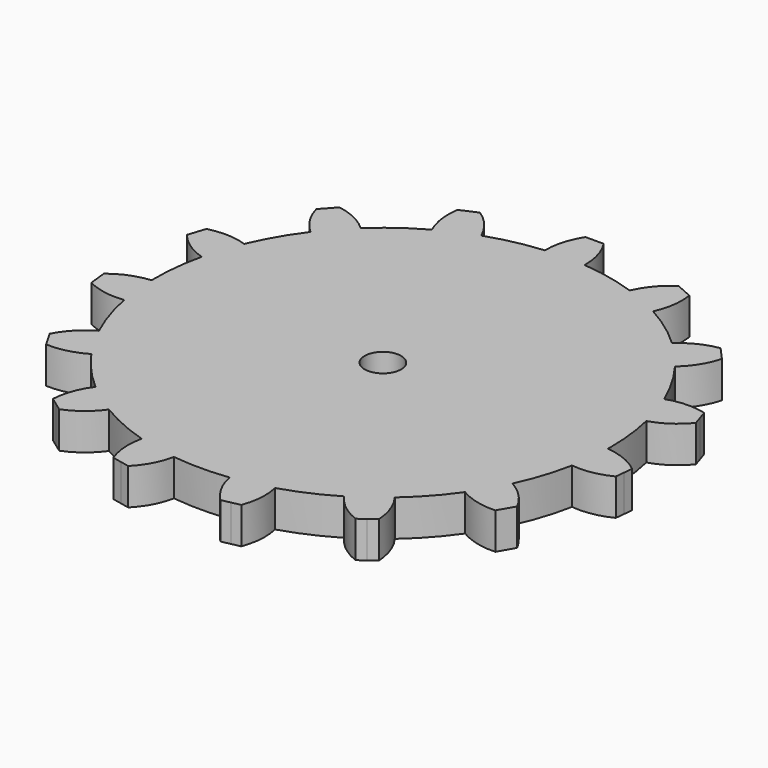
from build123d import *

# Parameters (mm, degrees)
F1_DEPTH = 2
F2_R     = 1
F3_DEPTH = 2.001


with BuildPart() as f1:
    # F0 (on Top) → F1 (new body)
    with BuildSketch(Plane.XY):
        with BuildLine():
            ThreePointArc((12.498086, -0.218737), (12.499521, -0.109373), (12.5, 0))
            ThreePointArc((12.5, 0), (12.419615, 1.415329), (12.179495, 2.812455))
            ThreePointArc((12.179495, 2.812455), (11.888206, 3.862712), (11.506538, 4.883604))
            ThreePointArc((11.506538, 4.883604), (10.825318, 6.25), (9.982594, 7.523152))
            ThreePointArc((9.982594, 7.523152), (9.28931, 8.364133), (8.525405, 9.141525))
            ThreePointArc((8.525405, 9.141525), (7.347316, 10.112712), (6.059612, 10.933028))
            ThreePointArc((6.059612, 10.933028), (5.084208, 11.419318), (4.070152, 11.818793))
            ThreePointArc((4.070152, 11.818793), (2.598896, 12.226845), (1.088867, 12.452484))
            ThreePointArc((1.088867, 12.452484), (0, 12.5), (-1.088867, 12.452484))
            ThreePointArc((-1.088867, 12.452484), (-2.598896, 12.226845), (-4.070152, 11.818793))
            ThreePointArc((-4.070152, 11.818793), (-5.084208, 11.419318), (-6.059612, 10.933028))
            ThreePointArc((-6.059612, 10.933028), (-7.347316, 10.112712), (-8.525405, 9.141525))
            ThreePointArc((-8.525405, 9.141525), (-9.28931, 8.364133), (-9.982594, 7.523152))
            ThreePointArc((-9.982594, 7.523152), (-10.825318, 6.25), (-11.506538, 4.883604))
            ThreePointArc((-11.506538, 4.883604), (-11.888206, 3.862712), (-12.179495, 2.812455))
            ThreePointArc((-12.179495, 2.812455), (-12.431524, 1.306606), (-12.498086, -0.218737))
            ThreePointArc((-12.498086, -0.218737), (-12.431524, -1.306606), (-12.270451, -2.384541))
            ThreePointArc((-12.270451, -2.384541), (-11.888206, -3.862712), (-11.328602, -5.283255))
            ThreePointArc((-11.328602, -5.283255), (-10.825318, -6.25), (-10.239734, -7.169229))
            ThreePointArc((-10.239734, -7.169229), (-9.28931, -8.364133), (-8.200299, -9.434251))
            ThreePointArc((-8.200299, -9.434251), (-7.347316, -10.112712), (-6.438475, -10.714292))
            ThreePointArc((-6.438475, -10.714292), (-5.084208, -11.419318), (-3.65409, -11.953979))
            ThreePointArc((-3.65409, -11.953979), (-2.598896, -12.226845), (-1.523944, -12.406756))
            ThreePointArc((-1.523944, -12.406756), (0, -12.5), (1.523944, -12.406756))
            ThreePointArc((1.523944, -12.406756), (2.598896, -12.226845), (3.65409, -11.953979))
            ThreePointArc((3.65409, -11.953979), (5.084208, -11.419318), (6.438475, -10.714292))
            ThreePointArc((6.438475, -10.714292), (7.347316, -10.112712), (8.200299, -9.434251))
            ThreePointArc((8.200299, -9.434251), (9.28931, -8.364133), (10.239734, -7.169229))
            ThreePointArc((10.239734, -7.169229), (10.825318, -6.25), (11.328602, -5.283255))
            ThreePointArc((11.328602, -5.283255), (11.888206, -3.862712), (12.270451, -2.384541))
            ThreePointArc((12.270451, -2.384541), (12.431524, -1.306606), (12.498086, -0.218737))
        make_face()
        with BuildLine():
            ThreePointArc((11.506538, 4.883604), (11.888206, 3.862712), (12.179495, 2.812455))
            ThreePointArc((12.179495, 2.812455), (13.150138, 3.278627), (13.944828, 4.005218))
            Line((13.944828, 4.005218), (13.790319, 4.480746))
            Line((13.790319, 4.480746), (13.635811, 4.956275))
            ThreePointArc((13.635811, 4.956275), (12.565814, 5.076992), (11.506538, 4.883604))
        make_face()
        with BuildLine():
            ThreePointArc((14.472832, -1.018402), (13.544441, -0.472914), (12.498086, -0.218737))
            ThreePointArc((12.498086, -0.218737), (12.431524, -1.306606), (12.270451, -2.384541))
            ThreePointArc((12.270451, -2.384541), (13.346787, -2.353468), (14.368303, -2.012924))
            Line((14.368303, -2.012924), (14.420567, -1.515663))
            Line((14.420567, -1.515663), (14.472832, -1.018402))
        make_face()
        with BuildLine():
            ThreePointArc((8.525405, 9.141525), (9.28931, 8.364133), (9.982594, 7.523152))
            ThreePointArc((9.982594, 7.523152), (10.679711, 8.343818), (11.110165, 9.330821))
            Line((11.110165, 9.330821), (10.7756, 9.702394))
            Line((10.7756, 9.702394), (10.441035, 10.073966))
            ThreePointArc((10.441035, 10.073966), (9.414444, 9.74904), (8.525405, 9.141525))
        make_face()
        with BuildLine():
            ThreePointArc((12.807368, -6.816987), (12.181111, -5.941049), (11.328602, -5.283255))
            ThreePointArc((11.328602, -5.283255), (10.825318, -6.25), (10.239734, -7.169229))
            ThreePointArc((10.239734, -7.169229), (11.235655, -7.578627), (12.307368, -7.683013))
            Line((12.307368, -7.683013), (12.557368, -7.25))
            Line((12.557368, -7.25), (12.807368, -6.816987))
        make_face()
        with BuildLine():
            ThreePointArc((4.070152, 11.818793), (5.084208, 11.419318), (6.059612, 10.933028))
            ThreePointArc((6.059612, 10.933028), (6.362665, 11.966287), (6.354454, 13.043041))
            Line((6.354454, 13.043041), (5.897681, 13.246409))
            Line((5.897681, 13.246409), (5.440909, 13.449777))
            ThreePointArc((5.440909, 13.449777), (4.635231, 12.735391), (4.070152, 11.818793))
        make_face()
        with BuildLine():
            ThreePointArc((8.927395, -11.436854), (8.711557, -10.381923), (8.200299, -9.434251))
            ThreePointArc((8.200299, -9.434251), (7.347316, -10.112712), (6.438475, -10.714292))
            ThreePointArc((6.438475, -10.714292), (7.181776, -11.493373), (8.118378, -12.024639))
            Line((8.118378, -12.024639), (8.522886, -11.730746))
            Line((8.522886, -11.730746), (8.927395, -11.436854))
        make_face()
        with BuildLine():
            ThreePointArc((-1.088867, 12.452484), (0, 12.5), (1.088867, 12.452484))
            ThreePointArc((1.088867, 12.452484), (0.945456, 13.519676), (0.5, 14.5))
            Line((0.5, 14.5), (0, 14.5))
            Line((0, 14.5), (-0.5, 14.5))
            ThreePointArc((-0.5, 14.5), (-0.945456, 13.519676), (-1.088867, 12.452484))
        make_face()
        with BuildLine():
            ThreePointArc((3.503793, -14.079184), (3.735695, -13.027668), (3.65409, -11.953979))
            ThreePointArc((3.65409, -11.953979), (2.598896, -12.226845), (1.523944, -12.406756))
            ThreePointArc((1.523944, -12.406756), (1.886103, -13.42081), (2.525646, -14.287096))
            Line((2.525646, -14.287096), (3.01472, -14.18314))
            Line((3.01472, -14.18314), (3.503793, -14.079184))
        make_face()
        with BuildLine():
            ThreePointArc((-6.059612, 10.933028), (-5.084208, 11.419318), (-4.070152, 11.818793))
            ThreePointArc((-4.070152, 11.818793), (-4.635231, 12.735391), (-5.440909, 13.449777))
            Line((-5.440909, 13.449777), (-5.897681, 13.246409))
            Line((-5.897681, 13.246409), (-6.354454, 13.043041))
            ThreePointArc((-6.354454, 13.043041), (-6.362665, 11.966287), (-6.059612, 10.933028))
        make_face()
        with BuildLine():
            ThreePointArc((-2.525646, -14.287096), (-1.886103, -13.42081), (-1.523944, -12.406756))
            ThreePointArc((-1.523944, -12.406756), (-2.598896, -12.226845), (-3.65409, -11.953979))
            ThreePointArc((-3.65409, -11.953979), (-3.735695, -13.027668), (-3.503793, -14.079184))
            Line((-3.503793, -14.079184), (-3.01472, -14.18314))
            Line((-3.01472, -14.18314), (-2.525646, -14.287096))
        make_face()
        with BuildLine():
            ThreePointArc((-9.982594, 7.523152), (-9.28931, 8.364133), (-8.525405, 9.141525))
            ThreePointArc((-8.525405, 9.141525), (-9.414444, 9.74904), (-10.441035, 10.073966))
            Line((-10.441035, 10.073966), (-10.7756, 9.702394))
            Line((-10.7756, 9.702394), (-11.110165, 9.330821))
            ThreePointArc((-11.110165, 9.330821), (-10.679711, 8.343818), (-9.982594, 7.523152))
        make_face()
        with BuildLine():
            ThreePointArc((-8.118378, -12.024639), (-7.181776, -11.493373), (-6.438475, -10.714292))
            ThreePointArc((-6.438475, -10.714292), (-7.347316, -10.112712), (-8.200299, -9.434251))
            ThreePointArc((-8.200299, -9.434251), (-8.711557, -10.381923), (-8.927395, -11.436854))
            Line((-8.927395, -11.436854), (-8.522886, -11.730746))
            Line((-8.522886, -11.730746), (-8.118378, -12.024639))
        make_face()
        with BuildLine():
            ThreePointArc((-12.179495, 2.812455), (-11.888206, 3.862712), (-11.506538, 4.883604))
            ThreePointArc((-11.506538, 4.883604), (-12.565814, 5.076992), (-13.635811, 4.956275))
            Line((-13.635811, 4.956275), (-13.790319, 4.480746))
            Line((-13.790319, 4.480746), (-13.944828, 4.005218))
            ThreePointArc((-13.944828, 4.005218), (-13.150138, 3.278627), (-12.179495, 2.812455))
        make_face()
        with BuildLine():
            ThreePointArc((-12.307368, -7.683013), (-11.235655, -7.578627), (-10.239734, -7.169229))
            ThreePointArc((-10.239734, -7.169229), (-10.825318, -6.25), (-11.328602, -5.283255))
            ThreePointArc((-11.328602, -5.283255), (-12.181111, -5.941049), (-12.807368, -6.816987))
            Line((-12.807368, -6.816987), (-12.557368, -7.25))
            Line((-12.557368, -7.25), (-12.307368, -7.683013))
        make_face()
        with BuildLine():
            ThreePointArc((-12.270451, -2.384541), (-12.431524, -1.306606), (-12.498086, -0.218737))
            ThreePointArc((-12.498086, -0.218737), (-13.544441, -0.472914), (-14.472832, -1.018402))
            Line((-14.472832, -1.018402), (-14.420567, -1.515663))
            Line((-14.420567, -1.515663), (-14.368303, -2.012924))
            ThreePointArc((-14.368303, -2.012924), (-13.346787, -2.353468), (-12.270451, -2.384541))
        make_face()
    extrude(amount=F1_DEPTH)

    # F2 (on face) → F3 (cut, through all)
    with BuildSketch(Plane.XY.offset(2)):
        Circle(F2_R)
    extrude(amount=-F3_DEPTH, mode=Mode.SUBTRACT)


solid = f1.part
